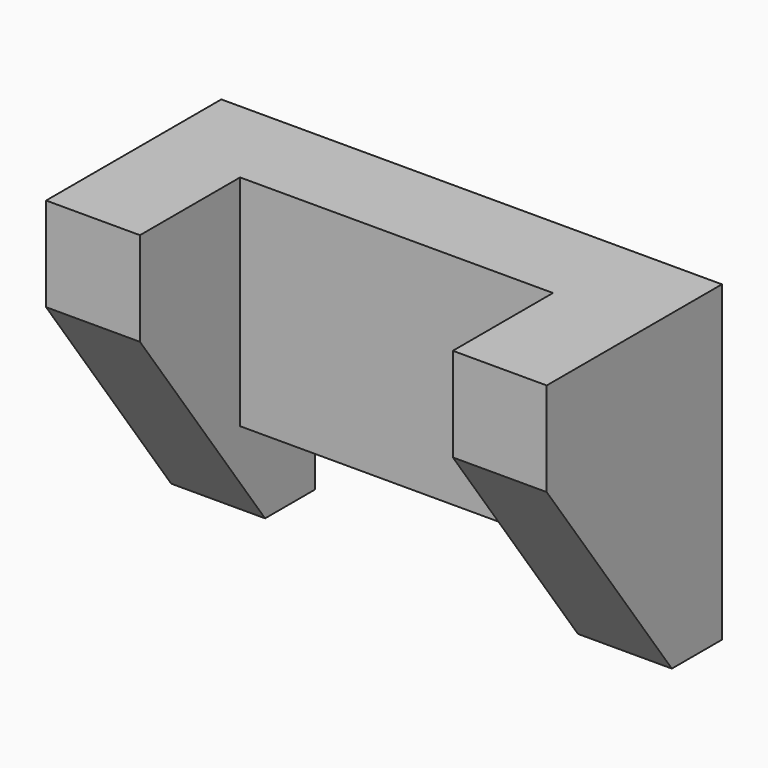
from build123d import *

# Parameters (mm, degrees)
F0_W     = 63.5
F0_H     = 44.45
F1_DEPTH = 19.05
F2_DEPTH = 44.45
F4_DEPTH = 101.601


with BuildPart() as f1:
    # F0 (on Front) → F1 (new body)
    with BuildSketch(Plane.XZ):
        with Locations((3.878605, 0.819924)):
            Rectangle(F0_W, F0_H)
    extrude(amount=F1_DEPTH)

    # F0 (on Front) → F2 (join)
    with BuildSketch(Plane.XZ):
        Polygon((35.628605, 23.044924), (35.628605, -21.405076), (35.628605, -40.455076), (54.678605, -40.455076), (54.678605, 23.044924), align=None)
        Polygon((-46.921395, 23.044924), (-46.921395, -40.455076), (-27.871395, -40.455076), (-27.871395, -21.405076), (-27.871395, 23.044924), align=None)
    extrude(amount=F2_DEPTH)

    # F3 (on face) → F4 (cut, through all)
    with BuildSketch(Plane.YZ.offset(54.678605)):
        Polygon((-12.7, -40.455076), (-44.45, 3.994924), (-44.45, -40.455076), align=None)
    extrude(amount=-F4_DEPTH, mode=Mode.SUBTRACT)


solid = f1.part
